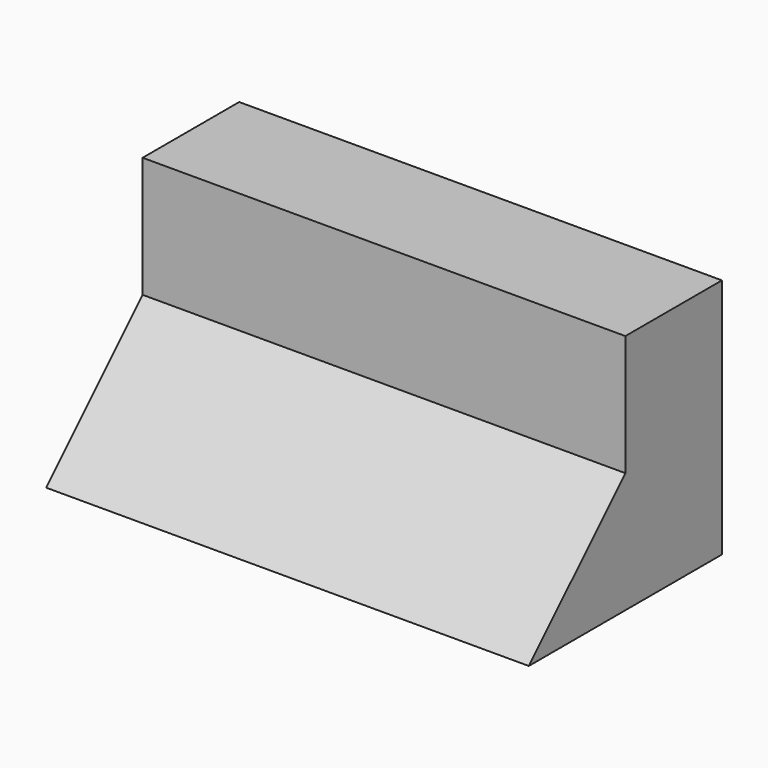
from build123d import *

# Parameters (mm, degrees)
F0_W     = 40
F0_H     = 20
F1_DEPTH = 20
F3_DEPTH = 40.001


with BuildPart() as f1:
    # F0 (on Top) → F1 (new body)
    with BuildSketch(Plane.XY):
        with Locations((-41.790509, -39.392859)):
            Rectangle(F0_W, F0_H)
    extrude(amount=F1_DEPTH)

    # F2 (on face) → F3 (cut, through all)
    with BuildSketch(Plane.YZ.offset(-21.790509)):
        Polygon((-39.392859, 10), (-39.392859, 20), (-49.392859, 20), (-49.392859, 0), align=None)
    extrude(amount=-F3_DEPTH, mode=Mode.SUBTRACT)


solid = f1.part
